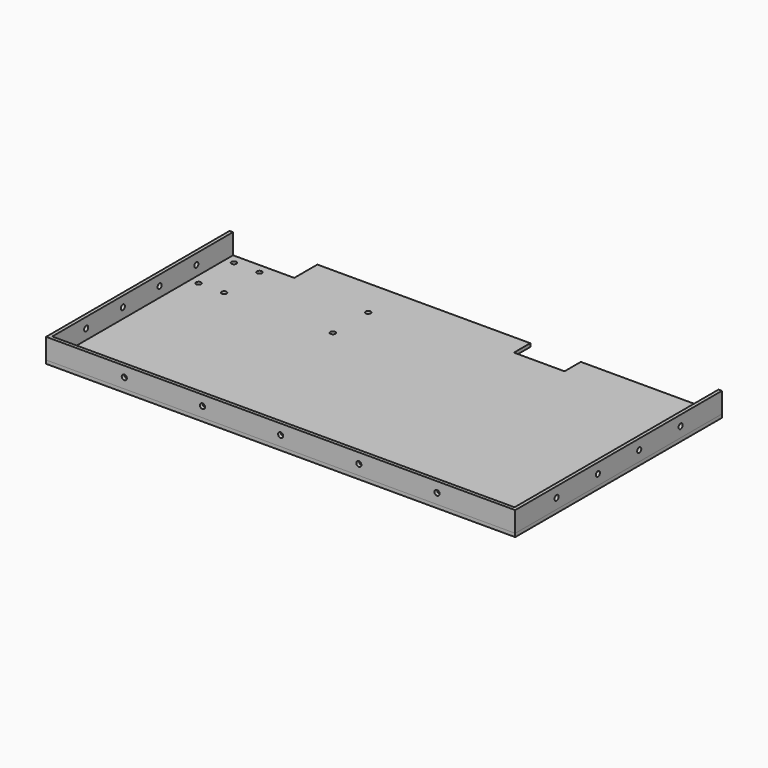
from build123d import *

# Parameters (mm, degrees)
F1_DEPTH = 19.05
F0_R     = 2.38125
F2_DEPTH = 3.175
F3_R     = 2.38125
F4_DEPTH = 12.7
F5_R     = 2.38125
F6_DEPTH = 12.7
F7_R     = 2.38125
F8_DEPTH = 12.7


with BuildPart() as f1:
    # F0 (on Top) → F1 (new body)
    with BuildSketch(Plane.XY):
        Polygon((0, 214.3125), (0, 0), (438.15, 0), (438.15, 241.3), (434.975, 241.3), (434.975, 3.175), (3.175, 3.175), (3.175, 214.3125), align=None)
    extrude(amount=F1_DEPTH)

    # F3 (on face) → F4 (cut)
    with BuildSketch(Plane(origin=(0, 0, 0), x_dir=(0, -1, 0), z_dir=(-1, 0, 0))):
        with Locations((-171.45, 9.525)):
            Circle(F3_R)
        with Locations((-128.5875, 9.525)):
            Circle(F3_R)
        with Locations((-85.725, 9.525)):
            Circle(F3_R)
        with Locations((-42.8625, 9.525)):
            Circle(F3_R)
    extrude(amount=-F4_DEPTH, mode=Mode.SUBTRACT)

    # F5 (on face) → F6 (cut)
    with BuildSketch(Plane.XZ):
        with Locations((73.025, 9.525)):
            Circle(F5_R)
        with Locations((146.05, 9.525)):
            Circle(F5_R)
        with Locations((219.075, 9.525)):
            Circle(F5_R)
        with Locations((292.1, 9.525)):
            Circle(F5_R)
        with Locations((365.125, 9.525)):
            Circle(F5_R)
    extrude(amount=-F6_DEPTH, mode=Mode.SUBTRACT)

    # F7 (on face) → F8 (cut)
    with BuildSketch(Plane.YZ.offset(438.15)):
        with Locations((48.26, 9.525)):
            Circle(F7_R)
        with Locations((96.52, 9.525)):
            Circle(F7_R)
        with Locations((144.78, 9.525)):
            Circle(F7_R)
        with Locations((193.04, 9.525)):
            Circle(F7_R)
    extrude(amount=-F8_DEPTH, mode=Mode.SUBTRACT)


with BuildPart() as f2:
    # F0 (on Top) → F2 (new body)
    with BuildSketch(Plane.XY):
        Polygon((60.325, 214.3125), (3.175, 214.3125), (3.175, 3.175), (434.975, 3.175), (434.975, 241.3), (306.3875, 241.3), (306.3875, 222.25), (259.1435, 222.25), (259.1435, 241.3), (60.325, 241.3), align=None)
        with Locations((11.1125, 164.1475)):
            Circle(F0_R, mode=Mode.SUBTRACT)
        with Locations((34.925, 164.1475)):
            Circle(F0_R, mode=Mode.SUBTRACT)
        with Locations((136.525, 164.1475)):
            Circle(F0_R, mode=Mode.SUBTRACT)
        with Locations((11.1125, 205.4225)):
            Circle(F0_R, mode=Mode.SUBTRACT)
        with Locations((34.925, 205.4225)):
            Circle(F0_R, mode=Mode.SUBTRACT)
        with Locations((136.525, 205.4225)):
            Circle(F0_R, mode=Mode.SUBTRACT)
        Polygon((0, 214.3125), (0, 0), (438.15, 0), (438.15, 241.3), (434.975, 241.3), (434.975, 3.175), (3.175, 3.175), (3.175, 214.3125), align=None)
    extrude(amount=-F2_DEPTH)


solid = Compound([f1.part, f2.part])
